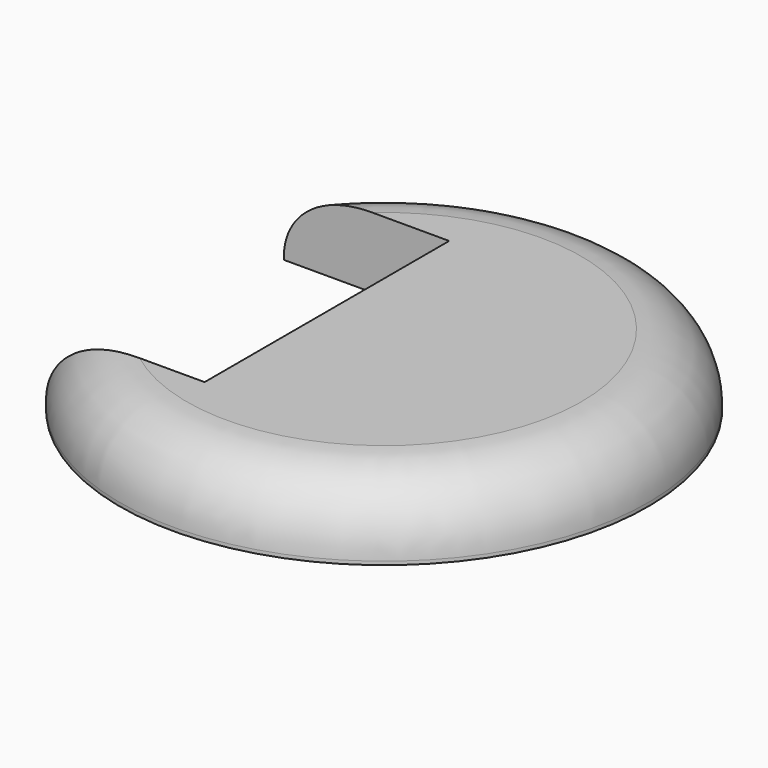
from build123d import *

# Parameters (mm, degrees)
SKETCH037_R     = 7.5
PAD014_DEPTH    = 2
FILLET_R        = 1.9
SKETCH038_W     = 7.549545
SKETCH038_H     = 8.681977
POCKET016_DEPTH = 5


with BuildPart() as part:
    # Sketch037 → Pad014 (new body)
    with BuildSketch(Plane.XY):
        with Locations((102.610229, -47.581253)):
            Circle(SKETCH037_R)
    extrude(amount=PAD014_DEPTH)

    # Fillet
    fillet_edges = [part.edges().sort_by_distance(p)[0] for p in [
        (95.110229, -47.581253, 2),
    ]]
    fillet(fillet_edges, radius=FILLET_R)

    # Sketch038 (on Face4 of Fillet) → Pocket016 (cut)
    with BuildSketch(Plane.XY.offset(2)):
        with Locations((97.318771, -47.714951)):
            Rectangle(SKETCH038_W, SKETCH038_H)
    extrude(amount=-POCKET016_DEPTH, mode=Mode.SUBTRACT)


with BuildPart() as part_1:
    # Body006 placement: moved
    add(part.part.moved(Location((0, 0, 40))))


solid = part_1.part
